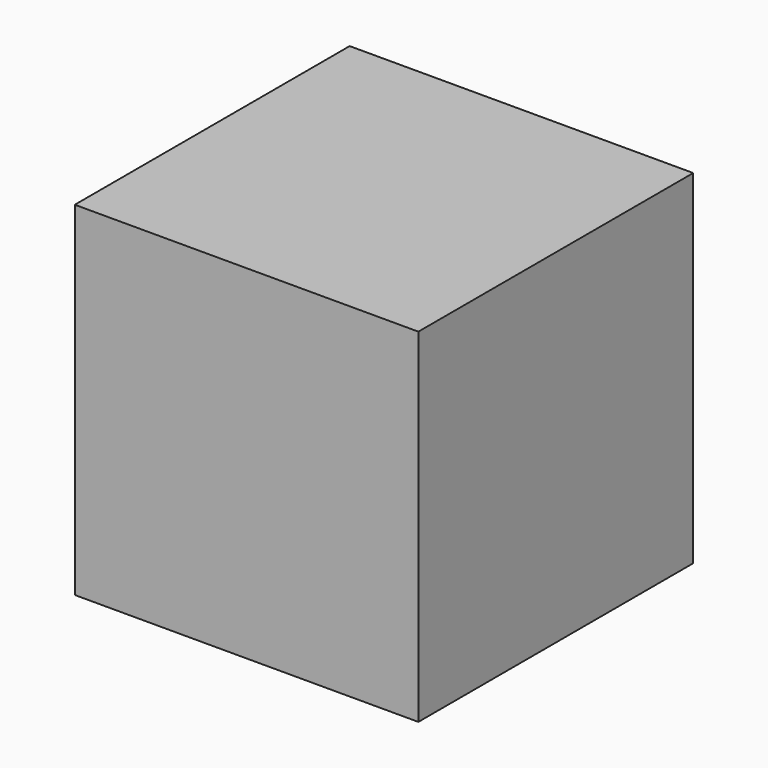
from build123d import *

# Parameters (mm, degrees)
F0_W     = 40
F0_H     = 40
F1_DEPTH = 40


with BuildPart() as f1:
    # F0 (on Top) → F1 (new body)
    with BuildSketch(Plane.XY):
        with Locations((20, 20)):
            Rectangle(F0_W, F0_H)
    extrude(amount=F1_DEPTH)

    # F2 (on face) → F3 (revolve, cut)
    with BuildSketch(Plane(origin=(0, 40, 0), x_dir=(-1, 0, 0), z_dir=(0, 1, 0))):
        with BuildLine():
            ThreePointArc((-40, 20), (-34.142136, 5.857864), (-20, 0))
            Line((-20, 0), (-20, 40))
            ThreePointArc((-20, 40), (-34.142136, 34.142136), (-40, 20))
        make_face()
    revolve(axis=Axis((20, 40, 20), (0, 0, 1)), mode=Mode.SUBTRACT)


solid = f1.part
